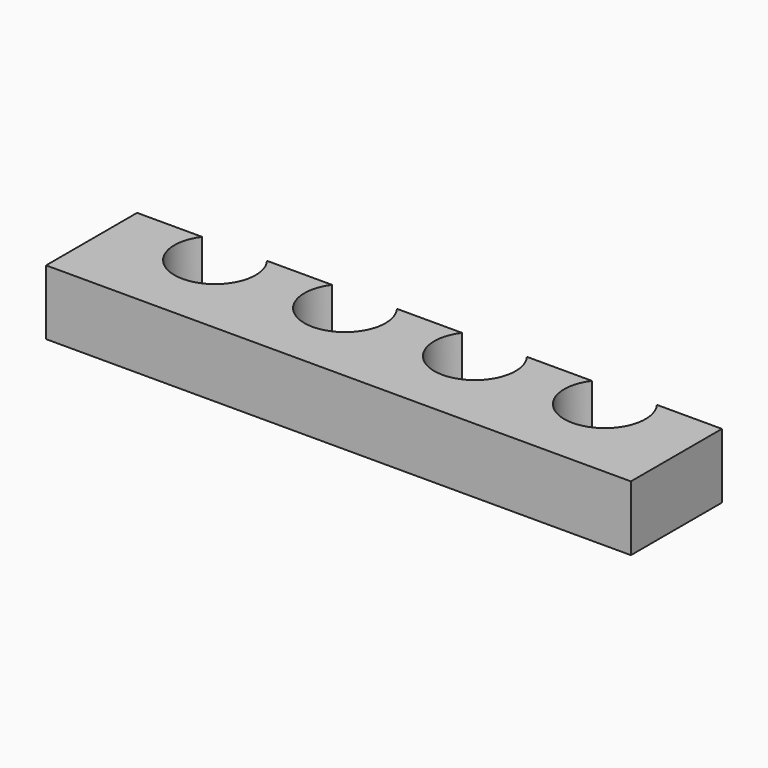
from build123d import *

# Parameters (mm, degrees)
F1_DEPTH = 4


with BuildPart() as f1:
    # F0 (on Top) → F1 (new body)
    with BuildSketch(Plane.XY):
        with BuildLine():
            ThreePointArc((8, 7.004538), (6.003411, 3), (4.006822, 7.004538))
            Line((4.006822, 7.004538), (0, 7.004538))
            Line((0, 7.004538), (0, 0))
            Line((0, 0), (36.006822, 0))
            Line((36.006822, 0), (36.006822, 7.004538))
            Line((36.006822, 7.004538), (32, 7.004538))
            ThreePointArc((32, 7.004538), (30.003411, 3), (28.006822, 7.004538))
            Line((28.006822, 7.004538), (24, 7.004538))
            ThreePointArc((24, 7.004538), (22.003411, 3), (20.006822, 7.004538))
            Line((20.006822, 7.004538), (16, 7.004538))
            ThreePointArc((16, 7.004538), (14.003411, 3), (12.006822, 7.004538))
            Line((12.006822, 7.004538), (8, 7.004538))
        make_face()
    extrude(amount=F1_DEPTH)


solid = f1.part
